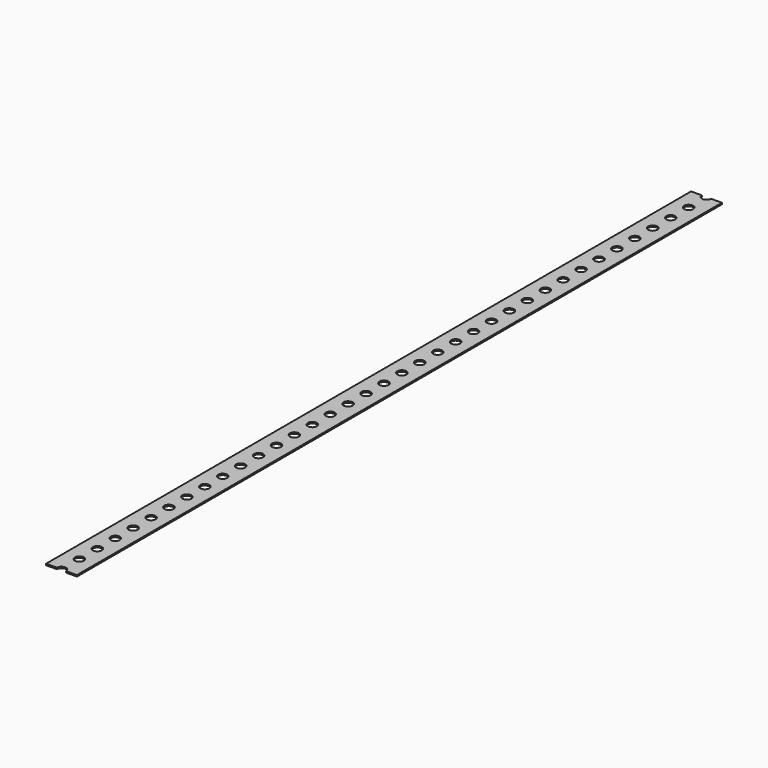
from build123d import *

# Parameters (mm, degrees)
F0_W     = 34.925
F0_H     = 1.5875
F1_DEPTH = 914.4
F2_R     = 5.159375
F3_DEPTH = 25.4


with BuildPart() as f1:
    # F0 (on Front) → F1 (new body)
    with BuildSketch(Plane.XZ):
        with Locations((17.4625, 0.79375)):
            Rectangle(F0_W, F0_H)
    extrude(amount=F1_DEPTH)

    # F2 (on face) → F3 (cut)
    with BuildSketch(Plane.XY.offset(1.5875)):
        with BuildLine():
            ThreePointArc((12.303125, 0), (17.4625, -5.159375), (22.621875, 0))
            Line((22.621875, 0), (12.303125, 0))
        make_face()
        with Locations((17.4625, -25.4)):
            Circle(F2_R)
        with Locations((17.4625, -50.8)):
            Circle(F2_R)
        with Locations((17.4625, -101.6)):
            Circle(F2_R)
        with Locations((17.4625, -76.2)):
            Circle(F2_R)
        with Locations((17.4625, -228.6)):
            Circle(F2_R)
        with Locations((17.4625, -203.2)):
            Circle(F2_R)
        with Locations((17.4625, -177.8)):
            Circle(F2_R)
        with Locations((17.4625, -152.4)):
            Circle(F2_R)
        with Locations((17.4625, -127)):
            Circle(F2_R)
        with Locations((17.4625, -254)):
            Circle(F2_R)
        with Locations((17.4625, -279.4)):
            Circle(F2_R)
        with Locations((17.4625, -304.8)):
            Circle(F2_R)
        with BuildLine():
            Line((12.303125, -914.4), (22.621875, -914.4))
            ThreePointArc((22.621875, -914.4), (17.4625, -909.240625), (12.303125, -914.4))
        make_face()
        with Locations((17.4625, -889)):
            Circle(F2_R)
        with Locations((17.4625, -863.6)):
            Circle(F2_R)
        with Locations((17.4625, -838.2)):
            Circle(F2_R)
        with Locations((17.4625, -812.8)):
            Circle(F2_R)
        with Locations((17.4625, -787.4)):
            Circle(F2_R)
        with Locations((17.4625, -762)):
            Circle(F2_R)
        with Locations((17.4625, -736.6)):
            Circle(F2_R)
        with Locations((17.4625, -711.2)):
            Circle(F2_R)
        with Locations((17.4625, -660.4)):
            Circle(F2_R)
        with Locations((17.4625, -685.8)):
            Circle(F2_R)
        with Locations((17.4625, -635)):
            Circle(F2_R)
        with Locations((17.4625, -609.6)):
            Circle(F2_R)
        with Locations((17.4625, -584.2)):
            Circle(F2_R)
        with Locations((17.4625, -558.8)):
            Circle(F2_R)
        with Locations((17.4625, -533.4)):
            Circle(F2_R)
        with Locations((17.4625, -508)):
            Circle(F2_R)
        with Locations((17.4625, -482.6)):
            Circle(F2_R)
        with Locations((17.4625, -457.2)):
            Circle(F2_R)
        with Locations((17.4625, -431.8)):
            Circle(F2_R)
        with Locations((17.4625, -406.4)):
            Circle(F2_R)
        with Locations((17.4625, -381)):
            Circle(F2_R)
        with Locations((17.4625, -330.2)):
            Circle(F2_R)
        with Locations((17.4625, -355.6)):
            Circle(F2_R)
    extrude(amount=-F3_DEPTH, mode=Mode.SUBTRACT)


solid = f1.part
